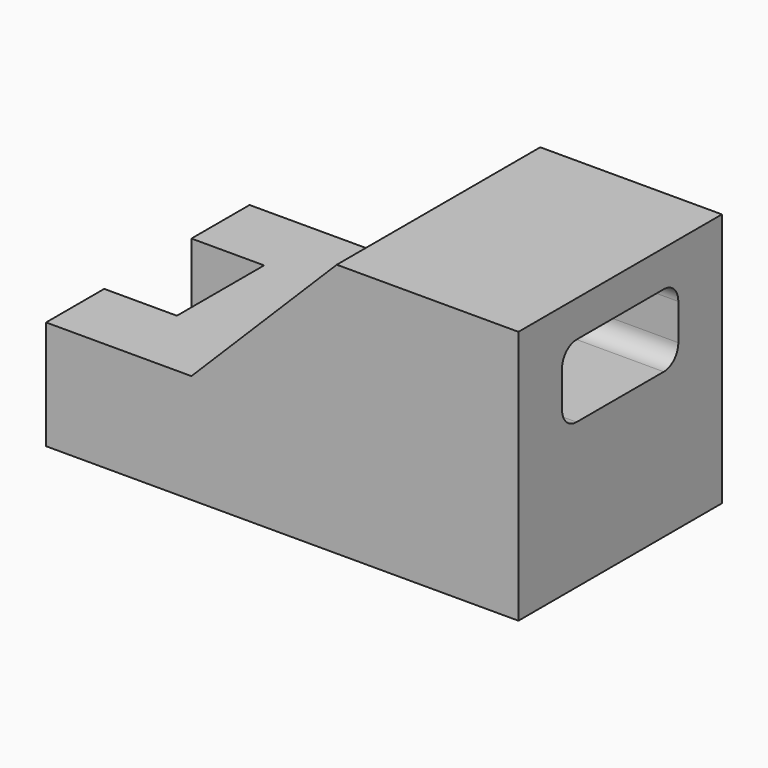
from build123d import *

# Parameters (mm, degrees)
F1_DEPTH = 70
F2_W     = 40
F2_H     = 20
F3_DEPTH = 130.001
F4_R     = 5
F5_W     = 30
F5_H     = 30
F6_DEPTH = 20


with BuildPart() as f1:
    # F0 (on Front) → F1 (new body)
    with BuildSketch(Plane.XZ):
        Polygon((65, 35), (15, 35), (-25, -5), (-65, -5), (-65, -35), (65, -35), align=None)
    extrude(amount=F1_DEPTH)

    # F2 (on face) → F3 (cut, through all)
    with BuildSketch(Plane.YZ.offset(65)):
        with Locations((-35, 15)):
            Rectangle(F2_W, F2_H)
    extrude(amount=-F3_DEPTH, mode=Mode.SUBTRACT)

    # F4
    f4_edges = [f1.edges().sort_by_distance(p)[0] for p in [
        (25, -55, 5),
        (25, -15, 5),
        (35, -15, 25),
        (35, -55, 25),
    ]]
    fillet(f4_edges, radius=F4_R)

    # F5 (on face) → F6 (cut)
    with BuildSketch(Plane(origin=(-65, 0, 0), x_dir=(0, -1, 0), z_dir=(-1, 0, 0))):
        with Locations((35, -20)):
            Rectangle(F5_W, F5_H)
    extrude(amount=-F6_DEPTH, mode=Mode.SUBTRACT)


solid = f1.part
